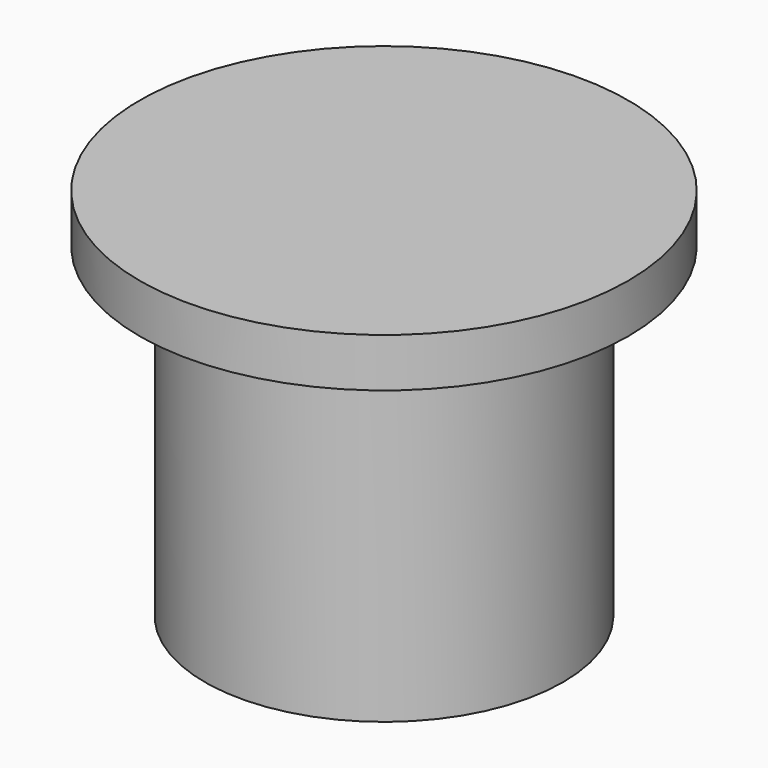
from build123d import *

# Parameters (mm, degrees)
F0_R     = 11
F1_DEPTH = 20
F2_R     = 15
F2_R_2   = 11
F3_DEPTH = 3


with BuildPart() as f1:
    # F0 (on Top) → F1 (new body)
    with BuildSketch(Plane.XY):
        with Locations((-53.662188, 0)):
            Circle(F0_R)
    extrude(amount=F1_DEPTH)

    # F2 (on face) → F3 (join)
    with BuildSketch(Plane.XY.offset(20)):
        with Locations((-53.662188, 0)):
            Circle(F2_R)
        with Locations((-53.662188, 0)):
            Circle(F2_R_2, mode=Mode.SUBTRACT)
        with Locations((-53.662188, 0)):
            Circle(F2_R_2)
    extrude(amount=F3_DEPTH)


solid = f1.part
